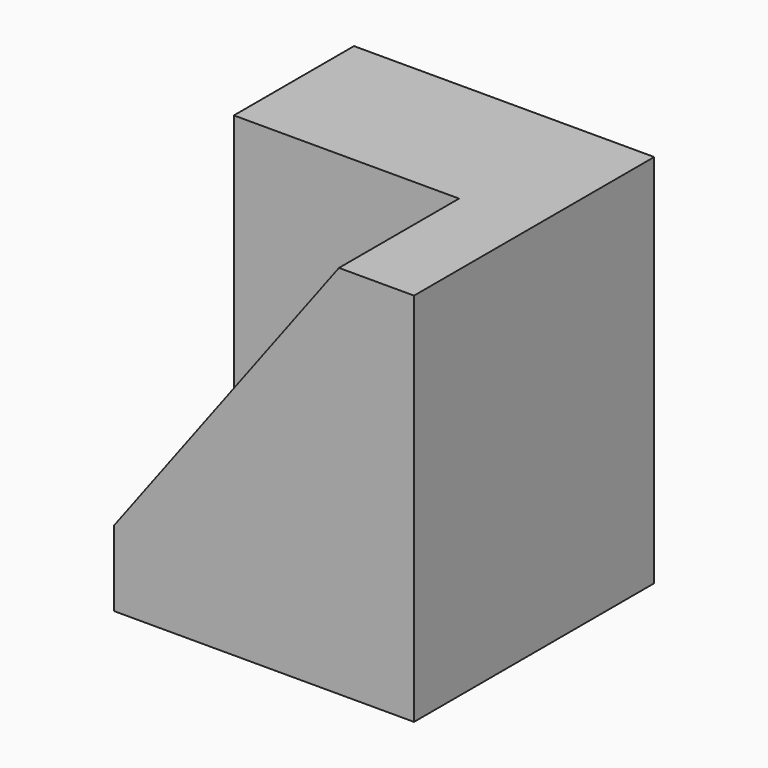
from build123d import *

# Parameters (mm, degrees)
F1_DEPTH = 25.4
F3_DEPTH = 12.7


with BuildPart() as f1:
    # F0 (on Front) → F1 (new body)
    with BuildSketch(Plane.XZ):
        Polygon((0, 6.35), (0, 0), (25.4, 0), (25.4, 31.75), (19.05, 31.75), align=None)
    extrude(amount=F1_DEPTH)

    # F2 (on Front) → F3 (join)
    with BuildSketch(Plane.XZ):
        Polygon((24.829213, 0), (25.4, 31.75), (0, 31.75), (0, 0), align=None)
    extrude(amount=F3_DEPTH)


solid = f1.part
